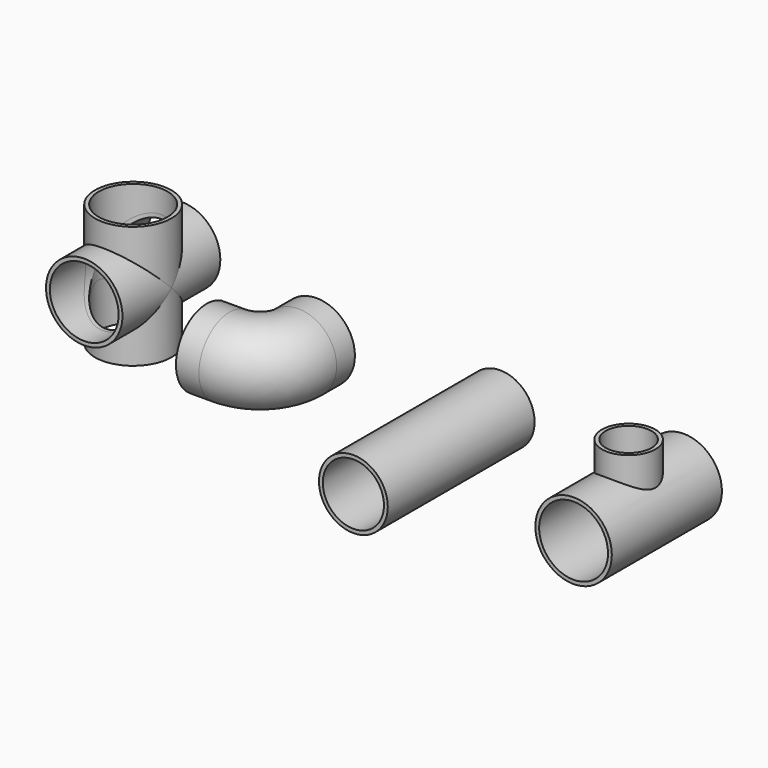
from build123d import *

# Parameters (mm, degrees)
F0_R      = 57.15
F0_R_2    = 50.8
F1_DEPTH  = 304.8
F2_R      = 63.5
F2_R_2    = 57.15
F3_DEPTH  = 228.6
F4_R      = 44.45
F4_R_2    = 38.1
F5_DEPTH  = 101.6
F6_R      = 63.5
F6_R_2    = 57.15
F9_R      = 63.5
F9_R_2    = 57.15
F10_DEPTH = 101.6
F11_R     = 63.5
F11_R_2   = 57.15
F12_DEPTH = 101.6
F13_DEPTH = 101.6
F14_DEPTH = 101.6


with BuildPart() as f1:
    # F0 (on Front) → F1 (new body)
    with BuildSketch(Plane.XZ):
        Circle(F0_R)
        Circle(F0_R_2, mode=Mode.SUBTRACT)
    extrude(amount=F1_DEPTH)


with BuildPart() as f3:
    # F2 (on Front) → F3 (new body)
    with BuildSketch(Plane.XZ):
        with Locations((304.8, 0)):
            Circle(F2_R)
        with Locations((304.8, 0)):
            Circle(F2_R_2, mode=Mode.SUBTRACT)
    extrude(amount=F3_DEPTH)

    # F4 (on Top) → F5 (join)
    with BuildSketch(Plane.XY):
        with Locations((304.8, -114.3)):
            Circle(F4_R)
        with Locations((304.8, -114.3)):
            Circle(F4_R_2, mode=Mode.SUBTRACT)
    extrude(amount=F5_DEPTH)


with BuildPart() as f8:
    # F8: sweep along a path in F7
    with BuildLine(Plane.XY) as f8_path:
        Line((-304.8, 0), (-304.8, -38.1))
        ThreePointArc((-304.8, -38.1), (-323.3987193947, -83.0012806053), (-368.3, -101.6))
        Line((-368.3, -101.6), (-406.4, -101.6))
    # F6 (on Front) → F8 (sweep)
    with BuildSketch(Plane.XZ):
        with Locations((-304.8, 0)):
            Circle(F6_R)
        with Locations((-304.8, 0)):
            Circle(F6_R_2, mode=Mode.SUBTRACT)
    sweep(path=f8_path.line)


with BuildPart() as f10:
    # F9 (on Front) → F10 (new body, symmetric)
    with BuildSketch(Plane.XZ):
        with Locations((-609.6, 0)):
            Circle(F9_R)
        with Locations((-609.6, 0)):
            Circle(F9_R_2, mode=Mode.SUBTRACT)
    extrude(amount=F10_DEPTH, both=True)

    # F11 (on Top) → F12 (join, symmetric)
    with BuildSketch(Plane.XY):
        with Locations((-609.6, 0)):
            Circle(F11_R)
        with Locations((-609.6, 0)):
            Circle(F11_R_2, mode=Mode.SUBTRACT)
    extrude(amount=F12_DEPTH, both=True)

    # F11 (on Top) → F13 (cut, symmetric)
    with BuildSketch(Plane.XY):
        with Locations((-609.6, 0)):
            Circle(F11_R_2)
    extrude(amount=F13_DEPTH, both=True, mode=Mode.SUBTRACT)

    # F9 (on Front) → F14 (cut, symmetric)
    with BuildSketch(Plane.XZ):
        with Locations((-609.6, 0)):
            Circle(F9_R_2)
    extrude(amount=F14_DEPTH, both=True, mode=Mode.SUBTRACT)


solid = Compound([f1.part, f3.part, f8.part, f10.part])
